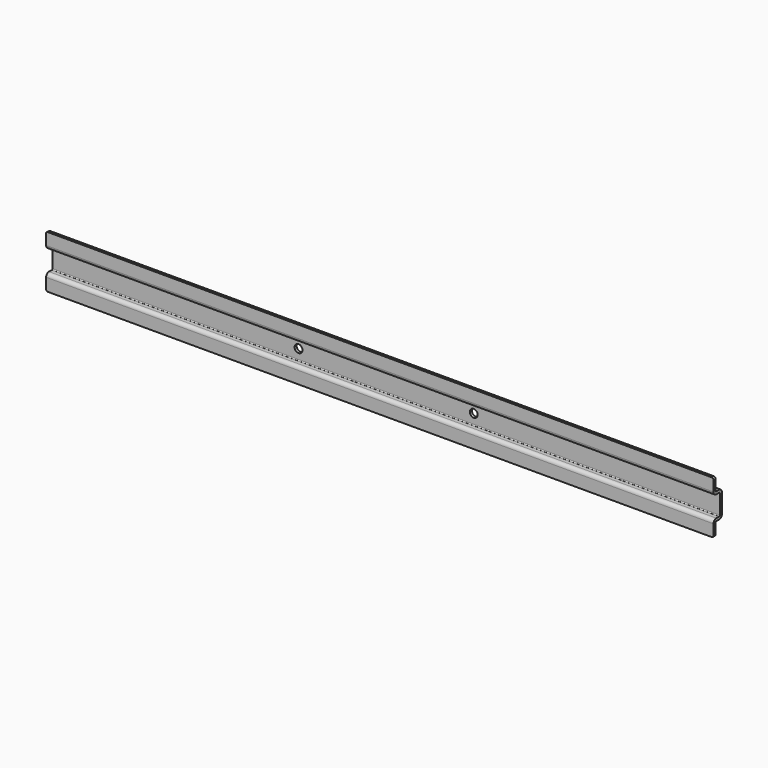
from build123d import *

# Parameters (mm, degrees)
F1_DEPTH = 381
F2_R     = 4.5
F3_DEPTH = 12.001
F4_R     = 2


with BuildPart() as f1:
    # F0 (on Right) → F1 (new body, symmetric)
    with BuildSketch(Plane.YZ):
        with BuildLine():
            Line((0, -11), (0, 0))
            Line((0, 0), (0, 11))
            ThreePointArc((0, 11), (-1.171573, 13.828427), (-4, 15))
            Line((-4, 15), (-8, 15))
            ThreePointArc((-8, 15), (-8.707107, 15.292893), (-9, 16))
            Line((-9, 16), (-9, 30))
            Line((-9, 30), (-12, 30))
            Line((-12, 30), (-12, 16))
            ThreePointArc((-12, 16), (-10.828427, 13.171573), (-8, 12))
            Line((-8, 12), (-4, 12))
            ThreePointArc((-4, 12), (-3.292893, 11.707107), (-3, 11))
            Line((-3, 11), (-3, 0))
            Line((-3, 0), (-3, -11))
            ThreePointArc((-3, -11), (-3.292893, -11.707107), (-4, -12))
            Line((-4, -12), (-8, -12))
            ThreePointArc((-8, -12), (-10.828427, -13.171573), (-12, -16))
            Line((-12, -16), (-12, -30))
            Line((-12, -30), (-9, -30))
            Line((-9, -30), (-9, -16))
            ThreePointArc((-9, -16), (-8.707107, -15.292893), (-8, -15))
            Line((-8, -15), (-4, -15))
            ThreePointArc((-4, -15), (-1.171573, -13.828427), (0, -11))
        make_face()
    extrude(amount=F1_DEPTH, both=True)

    # F2 (on face) → F3 (cut, through all)
    with BuildSketch(Plane(origin=(0, 0, 0), x_dir=(-1, 0, 0), z_dir=(0, 1, 0))):
        with Locations((-100, 0)):
            Circle(F2_R)
        with Locations((100, 0)):
            Circle(F2_R)
    extrude(amount=-F3_DEPTH, mode=Mode.SUBTRACT)

    # F4
    f4_edges = [f1.edges().sort_by_distance(p)[0] for p in [
        (-381, -10.5, 30),
        (-381, -10.5, -30),
        (381, -10.5, 30),
        (381, -10.5, -30),
    ]]
    fillet(f4_edges, radius=F4_R)


solid = f1.part
